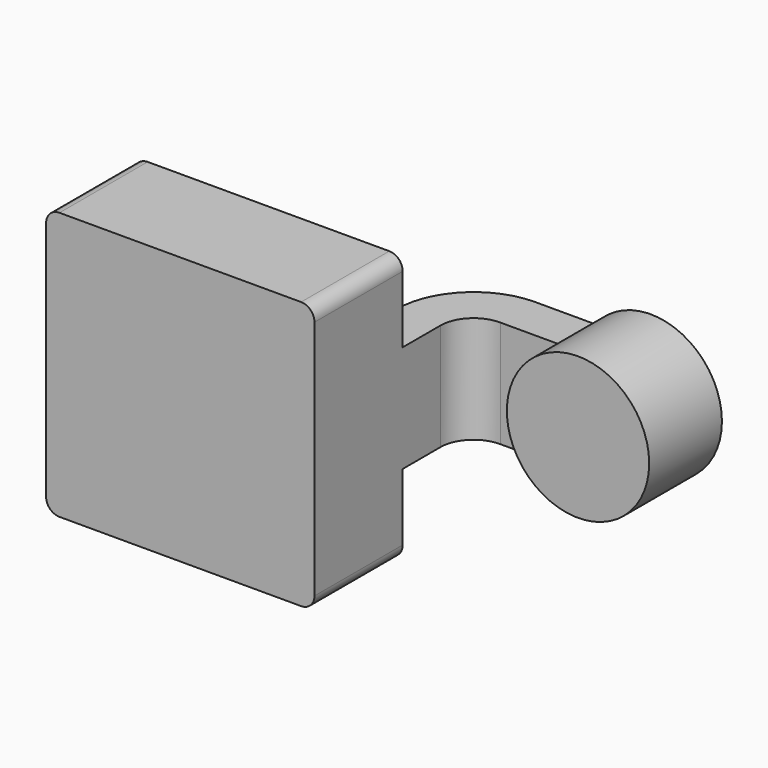
from build123d import *

# Parameters (mm, degrees)
F1_DEPTH = 63.5
F0_W     = 35.9624676678
F0_H     = 20.9170691669
F2_DEPTH = 25.4
F3_DEPTH = 7.9375
F5_R     = 6.35


with BuildPart() as f1:
    # F0 (on Top) → F1 (new body, symmetric)
    with BuildSketch(Plane.XY):
        Polygon((42.8987257183, 28.2148495317), (-63.5203495622, 28.2148495317), (-63.5203495622, -24.0786485374), (63.8157948852, -24.0786485374), (63.8157948852, 28.2148495317), align=None)
    extrude(amount=F1_DEPTH, both=True)

    # F0 (on Top) → F2 (join, symmetric)
    with BuildSketch(Plane.XY):
        with BuildLine():
            Line((42.8987257183, 50.6685562432), (42.8987257183, 28.2148495317))
            Line((42.8987257183, 28.2148495317), (63.8157948852, 28.2148495317))
            Line((63.8157948852, 28.2148495317), (63.8157948852, 50.6685562432))
            ThreePointArc((63.8157948852, 50.6685562432), (68.5286535357, 61.8676195433), (79.8310190439, 66.3270577788))
            Line((79.8310190439, 66.3270577788), (93.0647104979, 66.3270577788))
            Line((93.0647104979, 66.3270577788), (93.0647104979, 87.2441269457))
            Line((93.0647104979, 87.2441269457), (80.017371915, 87.2441269457))
            add(Edge.make_bspline(
                [(78.7551044312, 87.2409507038), (79.1779792996, 87.2440139811), (79.5987547257, 87.2450791343), (80.017371915, 87.2441269457)],
                knots=[153.9975424007, 153.9975424007, 153.9975424007, 153.9975424007, 155.2015885192, 155.2015885192, 155.2015885192, 155.2015885192], degree=3))
            ThreePointArc((78.7551044312, 87.2409507038), (53.3581999175, 76.2772458377), (42.8987257183, 50.6685562432))
        make_face()
        with Locations((111.0459443317, 76.7855923623)):
            Rectangle(F0_W, F0_H)
    extrude(amount=F2_DEPTH, both=True)

    # F0 (on Top) → F3 (join, symmetric)
    with BuildSketch(Plane.XY):
        with BuildLine():
            add(Edge.make_bspline(
                [(-63.5203495622, 28.2148495317), (-63.7598756137, 53.7712109703), (24.6693933614, 86.8491574209), (78.7551044312, 87.2409507038)],
                knots=[0, 0, 0, 0, 153.9975424007, 153.9975424007, 153.9975424007, 153.9975424007], degree=3))
            Line((-63.5203495622, 28.2148495317), (42.8987257183, 28.2148495317))
            Line((42.8987257183, 28.2148495317), (42.8987257183, 50.6685562432))
            ThreePointArc((42.8987257183, 50.6685562432), (53.3581999175, 76.2772458377), (78.7551044312, 87.2409507038))
        make_face()
    extrude(amount=F3_DEPTH, both=True)

    # F0 (on Top) → F4 (revolve)
    with BuildSketch(Plane.XY):
        Polygon((129.0271781656, 93.8032977283), (129.0271781656, 87.2441269457), (129.0271781656, 66.3270577788), (129.0271781656, 50.6685562432), (162.7893596888, 50.6685562432), (162.7893596888, 93.8032977283), align=None)
    revolve(axis=Axis((129.0271781656, 72.2359269857, 0), (0, 1, 0)))

    # F5
    f5_edges = [f1.edges().sort_by_distance(p)[0] for p in [
        (-63.52035, 2.0681, -63.5),
        (63.815795, 2.0681, -63.5),
        (-63.52035, 2.0681, 63.5),
        (63.815795, 2.0681, 63.5),
    ]]
    fillet(f5_edges, radius=F5_R)


solid = f1.part
